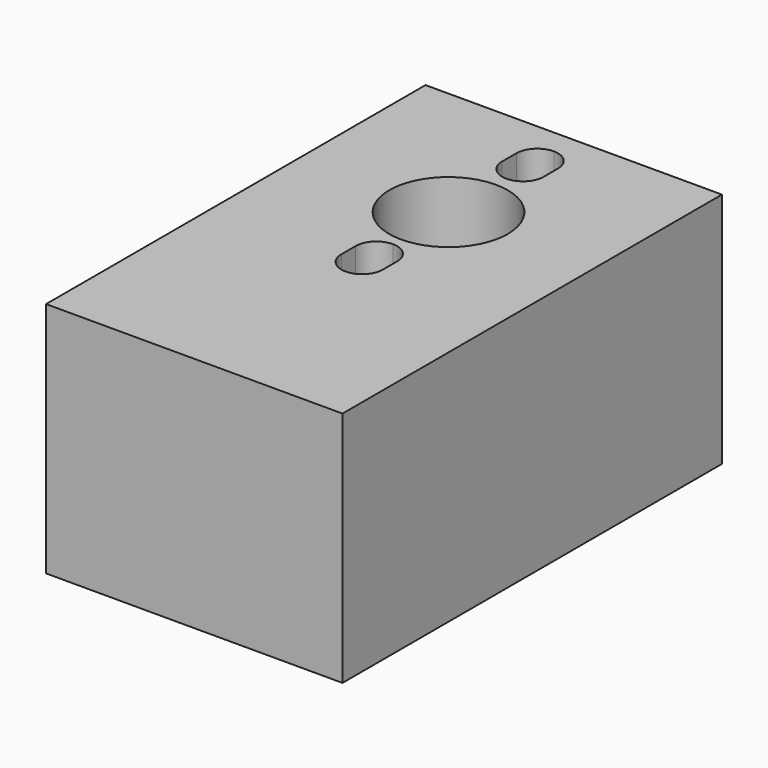
from build123d import *

# Parameters (mm, degrees)
F0_W     = 25
F0_H     = 40
F0_R     = 5
F1_DEPTH = 20


with BuildPart() as f1:
    # F0 (on Top) → F1 (new body)
    with BuildSketch(Plane.XY):
        with Locations((0, 1.240004)):
            Rectangle(F0_W, F0_H)
        with BuildLine():
            Line((1.75, 0.435572), (1.75, -1.064428))
            ThreePointArc((1.75, -1.064428), (1.237437, -2.301865), (0, -2.814428))
            ThreePointArc((0, -2.814428), (-1.237437, -2.301865), (-1.75, -1.064428))
            Line((-1.75, -1.064428), (-1.75, 0.435572))
            ThreePointArc((-1.75, 0.435572), (-1.237437, 1.673009), (0, 2.185572))
            ThreePointArc((0, 2.185572), (1.237437, 1.673009), (1.75, 0.435572))
        make_face(mode=Mode.SUBTRACT)
        with Locations((0, 8.04)):
            Circle(F0_R, mode=Mode.SUBTRACT)
        with BuildLine():
            Line((1.75, 17.38794), (1.75, 15.88794))
            ThreePointArc((1.75, 15.88794), (1.237437, 14.650503), (0, 14.13794))
            ThreePointArc((0, 14.13794), (-1.237437, 14.650503), (-1.75, 15.88794))
            Line((-1.75, 15.88794), (-1.75, 17.38794))
            ThreePointArc((-1.75, 17.38794), (-1.237437, 18.625377), (0, 19.13794))
            ThreePointArc((0, 19.13794), (1.237437, 18.625377), (1.75, 17.38794))
        make_face(mode=Mode.SUBTRACT)
    extrude(amount=F1_DEPTH)


solid = f1.part
